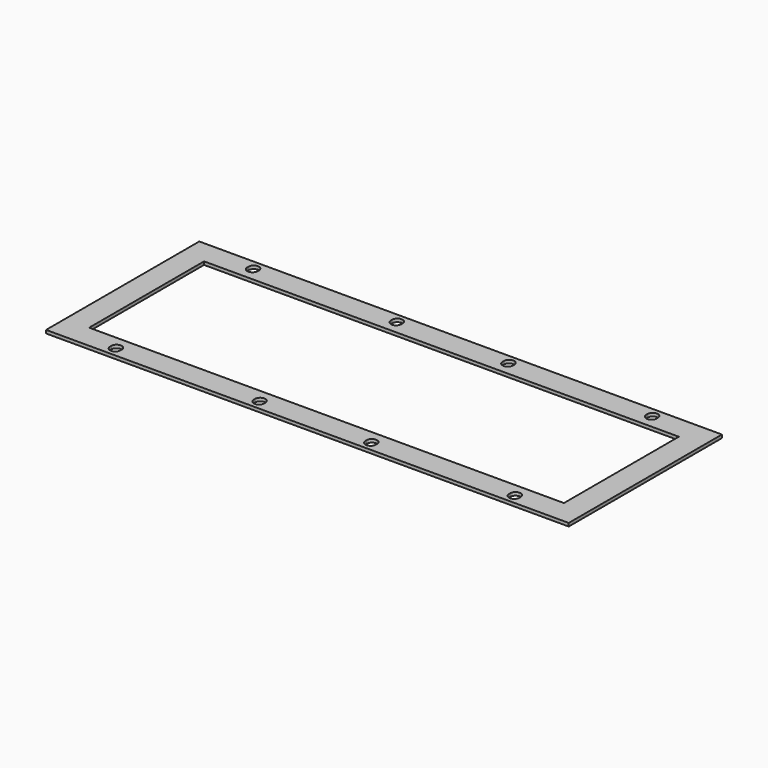
from build123d import *

# Parameters (mm, degrees)
F0_W     = 655
F0_H     = 240
F0_W_2   = 595
F0_H_2   = 180
F1_DEPTH = 4


with BuildPart() as f1:
    # F0 (on Top) → F1 (new body)
    with BuildSketch(Plane.XY):
        with Locations((327.5, 120)):
            Rectangle(F0_W, F0_H)
        with BuildLine():
            Line((84, 13.5), (84, 11.5))
            ThreePointArc((84, 11.5), (77.5, 5), (71, 11.5))
            Line((71, 11.5), (71, 13.5))
            ThreePointArc((71, 13.5), (77.5, 20), (84, 13.5))
        make_face(mode=Mode.SUBTRACT)
        with BuildLine():
            Line((264, 13.5), (264, 11.5))
            ThreePointArc((264, 11.5), (257.5, 5), (251, 11.5))
            Line((251, 11.5), (251, 13.5))
            ThreePointArc((251, 13.5), (257.5, 20), (264, 13.5))
        make_face(mode=Mode.SUBTRACT)
        with BuildLine():
            Line((404, 13.5), (404, 11.5))
            ThreePointArc((404, 11.5), (397.5, 5), (391, 11.5))
            Line((391, 11.5), (391, 13.5))
            ThreePointArc((391, 13.5), (397.5, 20), (404, 13.5))
        make_face(mode=Mode.SUBTRACT)
        with BuildLine():
            Line((584, 13.5), (584, 11.5))
            ThreePointArc((584, 11.5), (577.5, 5), (571, 11.5))
            Line((571, 11.5), (571, 13.5))
            ThreePointArc((571, 13.5), (577.5, 20), (584, 13.5))
        make_face(mode=Mode.SUBTRACT)
        with BuildLine():
            ThreePointArc((71, 228.5), (77.5, 235), (84, 228.5))
            Line((84, 228.5), (84, 226.5))
            ThreePointArc((84, 226.5), (77.5, 220), (71, 226.5))
            Line((71, 226.5), (71, 228.5))
        make_face(mode=Mode.SUBTRACT)
        with BuildLine():
            ThreePointArc((251, 228.5), (257.5, 235), (264, 228.5))
            Line((264, 228.5), (264, 226.5))
            ThreePointArc((264, 226.5), (257.5, 220), (251, 226.5))
            Line((251, 226.5), (251, 228.5))
        make_face(mode=Mode.SUBTRACT)
        with Locations((327.5, 120)):
            Rectangle(F0_W_2, F0_H_2, mode=Mode.SUBTRACT)
        with BuildLine():
            Line((391, 226.5), (391, 228.5))
            ThreePointArc((391, 228.5), (397.5, 235), (404, 228.5))
            Line((404, 228.5), (404, 226.5))
            ThreePointArc((404, 226.5), (397.5, 220), (391, 226.5))
        make_face(mode=Mode.SUBTRACT)
        with BuildLine():
            ThreePointArc((571, 228.5), (577.5, 235), (584, 228.5))
            Line((584, 228.5), (584, 226.5))
            ThreePointArc((584, 226.5), (577.5, 220), (571, 226.5))
            Line((571, 226.5), (571, 228.5))
        make_face(mode=Mode.SUBTRACT)
    extrude(amount=F1_DEPTH)


solid = f1.part
